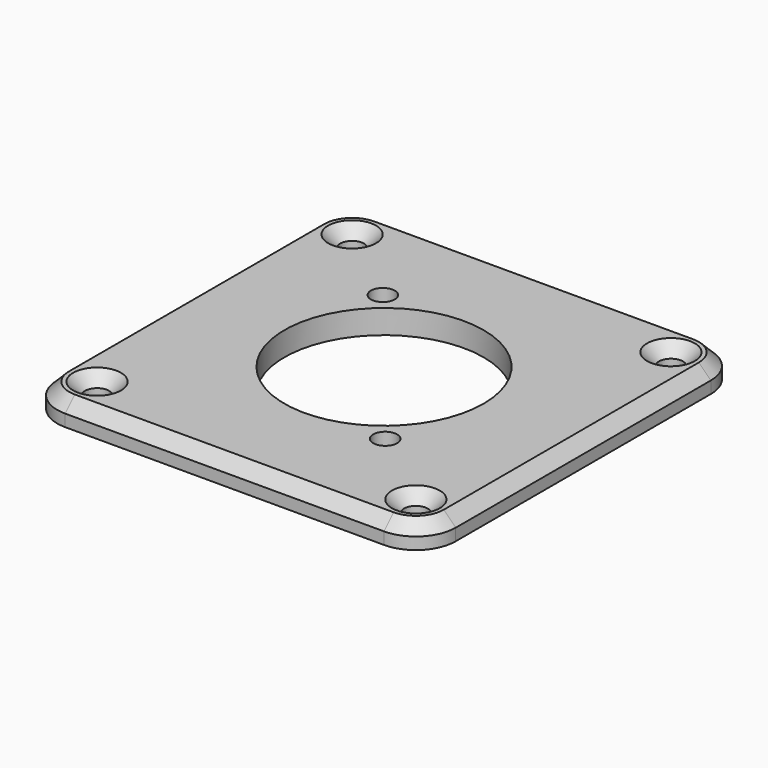
from build123d import *

# Parameters (mm, degrees)
SKETCH_R     = 1.5
SKETCH_R_2   = 12.5
PAD_DEPTH    = 3
CHAMFER_SIZE = 1.5


with BuildPart() as part:
    # Sketch → Pad (new body)
    with BuildSketch(Plane.XY):
        with BuildLine():
            Line((-20, 25), (20, 25))
            ThreePointArc((25, 20), (23.535534, 23.535534), (20, 25))
            Line((25, 20), (25, -20))
            ThreePointArc((20, -25), (23.535534, -23.535534), (25, -20))
            Line((20, -25), (-20, -25))
            ThreePointArc((-25, -20), (-23.535534, -23.535534), (-20, -25))
            Line((-25, -20), (-25, 20))
            ThreePointArc((-20, 25), (-23.535534, 23.535534), (-25, 20))
        make_face()
        with Locations((-9.616538, 11.835739)):
            Circle(SKETCH_R, mode=Mode.SUBTRACT)
        with Locations((9.616538, -11.835739)):
            Circle(SKETCH_R, mode=Mode.SUBTRACT)
        with Locations((-20, 20)):
            Circle(SKETCH_R, mode=Mode.SUBTRACT)
        with Locations((20, 20)):
            Circle(SKETCH_R, mode=Mode.SUBTRACT)
        with Locations((20, -20)):
            Circle(SKETCH_R, mode=Mode.SUBTRACT)
        with Locations((-20, -20)):
            Circle(SKETCH_R, mode=Mode.SUBTRACT)
        Circle(SKETCH_R_2, mode=Mode.SUBTRACT)
    extrude(amount=PAD_DEPTH)

    # Chamfer
    chamfer_edges = [part.edges().sort_by_distance(p)[0] for p in [
        (0, 25, 3),
        (-21.5, 20, 3),
        (18.5, 20, 3),
        (18.5, -20, 3),
        (-21.5, -20, 3),
    ]]
    chamfer(chamfer_edges, length=CHAMFER_SIZE)


solid = part.part
